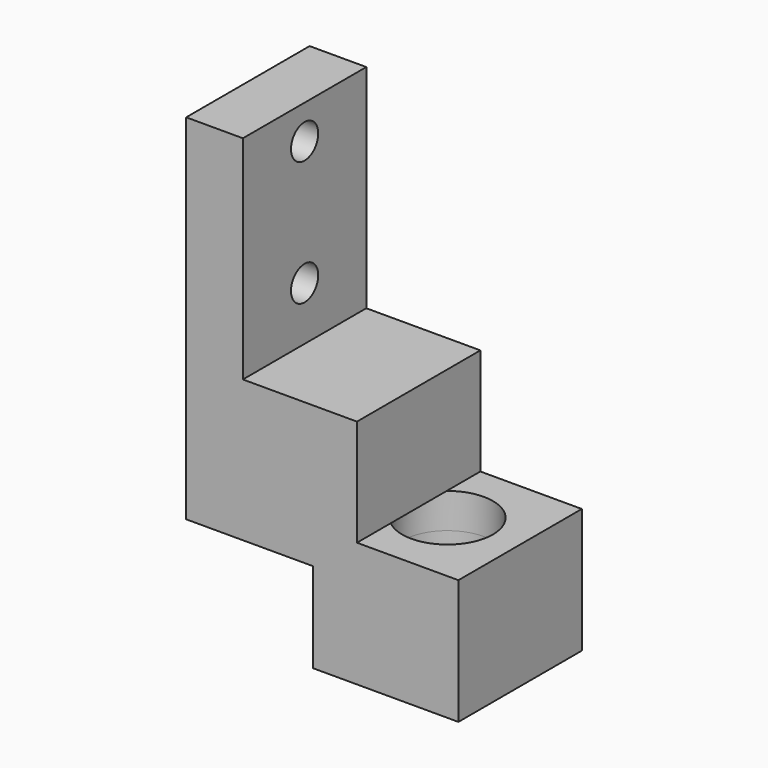
from build123d import *

# Parameters (mm, degrees)
F1_DEPTH      = 21.59
F2_R          = 4.7625
F3_DEPTH      = 76.201
F4_R          = 12.7
F5_DEPTH      = 9.779
F5_DEPTH_BACK = 25.147


with BuildPart() as f1:
    # F0 (on Front) → F1 (new body, symmetric)
    with BuildSketch(Plane.XZ):
        Polygon((-40.64, 0), (0, 0), (0, 34.925), (-28.3972, 34.925), (-28.3972, 64.77), (-60.325, 64.77), (-60.325, 124.206), (-76.2, 124.206), (-76.2, 25.146), (-40.64, 25.146), align=None)
    extrude(amount=F1_DEPTH, both=True)

    # F2 (on face) → F3 (cut, through all)
    with BuildSketch(Plane(origin=(-76.2, 0, 0), x_dir=(0, -1, 0), z_dir=(-1, 0, 0))):
        with Locations((0, 114.681)):
            Circle(F2_R)
        with Locations((0, 79.756)):
            Circle(F2_R)
    extrude(amount=-F3_DEPTH, mode=Mode.SUBTRACT)

    # F4 (on face) → F5 (cut, two sides)
    with BuildSketch(Plane(origin=(0, 0, 25.146), x_dir=(1, 0, 0), z_dir=(0, 0, -1))) as f5_sk:
        with Locations((-58.42, 0)):
            Circle(F4_R)
        with Locations((-20.32, 0)):
            Circle(F4_R)
    extrude(amount=-F5_DEPTH, mode=Mode.SUBTRACT)
    extrude(f5_sk.sketch, amount=F5_DEPTH_BACK, mode=Mode.SUBTRACT)


solid = f1.part
